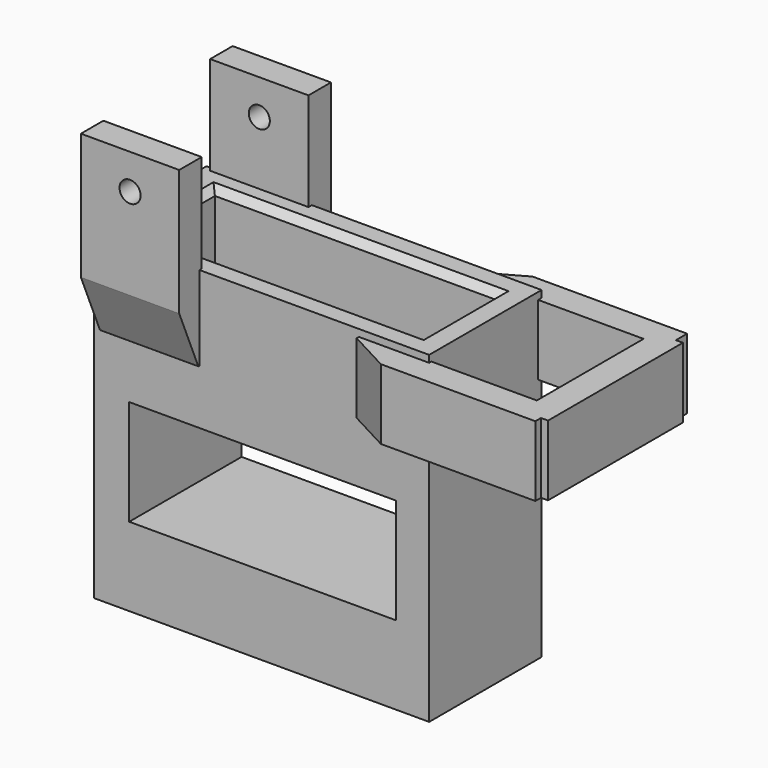
from build123d import *

# Parameters (mm, degrees)
BOX_W             = 23.85
BOX_H             = 10
BOX_DEPTH         = 23
BOX001_W          = 20
BOX001_H          = 6.55
BOX001_DEPTH      = 9.9
BOX002_W          = 19
BOX002_H          = 15
BOX002_DEPTH      = 7.5
CHAMFER_SIZE      = 0.5
CYLINDER_R        = 2.85
CYLINDER_DEPTH    = 4.5
CHAMFER001_SIZE   = 0.5
BOX003_W          = 7
BOX003_H          = 2
BOX003_DEPTH      = 13
CHAMFER002_SIZE2  = 4
CHAMFER002_SIZE   = 1.7
BOX004_W          = 7
BOX004_H          = 2
BOX004_DEPTH      = 13
CYLINDER001_R     = 0.75
CYLINDER001_DEPTH = 15
CHAMFER003_SIZE2  = 4
CHAMFER003_SIZE   = 1.6
BOX005_W          = 5
BOX005_H          = 2
BOX005_DEPTH      = 14
CHAMFER004_SIZE2  = 3
CHAMFER004_SIZE   = 1.6
BOX006_W          = 5
BOX006_H          = 2
BOX006_DEPTH      = 14
CHAMFER005_SIZE2  = 3
CHAMFER005_SIZE   = 1.69
BOX007_W          = 5
BOX007_H          = 12
BOX007_DEPTH      = 2


with BuildPart() as part:
    # Box → Box (join)
    with BuildSketch(Plane.XY):
        with Locations((11.925, 5)):
            Rectangle(BOX_W, BOX_H)
    extrude(amount=BOX_DEPTH)

    # Box001 → Box001 (cut)
    with BuildSketch(Plane(origin=(2, 1.7, 13.1), x_dir=(1, 0, 0), z_dir=(0, 0, 1))):
        with Locations((10, 3.275)):
            Rectangle(BOX001_W, BOX001_H)
    extrude(amount=BOX001_DEPTH, mode=Mode.SUBTRACT)

    # Box002 → Box002 (cut)
    with BuildSketch(Plane(origin=(2.5, -2.8, 5.6), x_dir=(1, 0, 0), z_dir=(0, 0, 1))):
        with Locations((9.5, 7.5)):
            Rectangle(BOX002_W, BOX002_H)
    extrude(amount=BOX002_DEPTH, mode=Mode.SUBTRACT)

    # Chamfer
    chamfer_edges = [part.edges().sort_by_distance(p)[0] for p in [
        (12, 8.25, 23),
        (22, 4.975, 23),
        (12, 1.7, 23),
        (2, 4.975, 23),
    ]]
    chamfer(chamfer_edges, length=CHAMFER_SIZE)

    # Cylinder → Cylinder (cut)
    with BuildSketch(Plane(origin=(4.5, 4.2, 4.5), x_dir=(1, 0, 0), z_dir=(0, 0, -1))):
        Circle(CYLINDER_R)
    extrude(amount=CYLINDER_DEPTH, mode=Mode.SUBTRACT)

    # Chamfer001
    chamfer001_edges = [part.edges().sort_by_distance(p)[0] for p in [
        (1.65, 4.2, 0),
    ]]
    chamfer(chamfer001_edges, length=CHAMFER001_SIZE)

    # Box003 → Box003 (join)
    with BuildSketch(Plane(origin=(0.5, -1.8, 17), x_dir=(1, 0, 0), z_dir=(0, 0, 1))):
        with Locations((3.5, 1)):
            Rectangle(BOX003_W, BOX003_H)
    extrude(amount=BOX003_DEPTH)

    # Chamfer002
    chamfer002_edges = [part.edges().sort_by_distance(p)[0] for p in [
        (4, -1.8, 17),
    ]]
    chamfer002_side = part.faces().sort_by_distance((4, -0.9, 17))[0]
    chamfer(chamfer002_edges, length=CHAMFER002_SIZE, length2=CHAMFER002_SIZE2, reference=chamfer002_side)

    # Box004 → Box004 (join)
    with BuildSketch(Plane(origin=(0.5, 9.7, 17), x_dir=(1, 0, 0), z_dir=(0, 0, 1))):
        with Locations((3.5, 1)):
            Rectangle(BOX004_W, BOX004_H)
    extrude(amount=BOX004_DEPTH)

    # Cylinder001 → Cylinder001 (cut)
    with BuildSketch(Plane(origin=(4, -2.8, 27.5), x_dir=(-1, 0, 0), z_dir=(0, 1, 0))):
        Circle(CYLINDER001_R)
    extrude(amount=CYLINDER001_DEPTH, mode=Mode.SUBTRACT)

    # Chamfer003
    chamfer003_edges = [part.edges().sort_by_distance(p)[0] for p in [
        (4, 11.7, 17),
    ]]
    chamfer003_side = part.faces().sort_by_distance((4, 10.85, 17))[0]
    chamfer(chamfer003_edges, length=CHAMFER003_SIZE, length2=CHAMFER003_SIZE2, reference=chamfer003_side)

    # Box005 → Box005 (join)
    with BuildSketch(Plane(origin=(18.85, -1.8, 22.5), x_dir=(0, 0, -1), z_dir=(1, 0, 0))):
        with Locations((2.5, 1)):
            Rectangle(BOX005_W, BOX005_H)
    extrude(amount=BOX005_DEPTH)

    # Chamfer004
    chamfer004_edges = [part.edges().sort_by_distance(p)[0] for p in [
        (18.85, -1.8, 20),
    ]]
    chamfer004_side = part.faces().sort_by_distance((18.85, -0.9, 20))[0]
    chamfer(chamfer004_edges, length=CHAMFER004_SIZE, length2=CHAMFER004_SIZE2, reference=chamfer004_side)

    # Box006 → Box006 (join)
    with BuildSketch(Plane(origin=(18.85, 9.7, 22.5), x_dir=(0, 0, -1), z_dir=(1, 0, 0))):
        with Locations((2.5, 1)):
            Rectangle(BOX006_W, BOX006_H)
    extrude(amount=BOX006_DEPTH)

    # Chamfer005
    chamfer005_edges = [part.edges().sort_by_distance(p)[0] for p in [
        (18.85, 11.7, 20),
    ]]
    chamfer005_side = part.faces().sort_by_distance((18.85, 10.85, 20))[0]
    chamfer(chamfer005_edges, length=CHAMFER005_SIZE, length2=CHAMFER005_SIZE2, reference=chamfer005_side)

    # Box007 → Box007 (join)
    with BuildSketch(Plane(origin=(31.35, -1.3, 22.5), x_dir=(0, 0, -1), z_dir=(1, 0, 0))):
        with Locations((2.5, 6)):
            Rectangle(BOX007_W, BOX007_H)
    extrude(amount=BOX007_DEPTH)


solid = part.part
